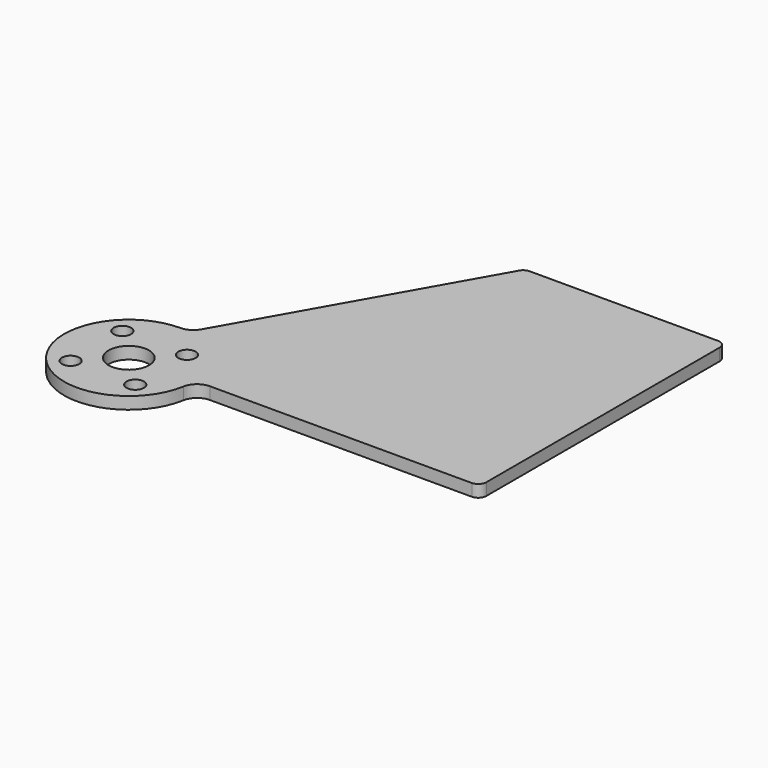
from build123d import *

# Parameters (mm, degrees)
SKETCH_R   = 2.15
SKETCH_R_2 = 5
PAD_DEPTH  = 3


with BuildPart() as part:
    # Sketch → Pad (new body)
    with BuildSketch(Plane.XY):
        with BuildLine():
            Line((36.7, 0.5), (84.5, 0.5))
            ThreePointArc((84.5, 0.5), (85.914214, 1.085786), (86.5, 2.5))
            Line((86.5, 2.5), (86.5, 74.7))
            ThreePointArc((86.5, 74.7), (85.914214, 76.114214), (84.5, 76.7))
            Line((84.5, 76.7), (37.865935, 76.7))
            ThreePointArc((37.865935, 76.7), (36.858665, 76.427833), (36.12554, 75.685406))
            Line((3.48079, 18.029189), (36.12554, 75.685406))
            ThreePointArc((0, 16), (2.014541, 16.544335), (3.48079, 18.029189))
            ThreePointArc((0, 16), (-12.263768, -10.276186), (15.753095, -2.8))
            ThreePointArc((19.691369, 0.5), (17.122322, -0.434058), (15.753095, -2.8))
            Line((36.7, 0.5), (19.691369, 0.5))
        make_face()
        with Locations((-8, 8)):
            Circle(SKETCH_R, mode=Mode.SUBTRACT)
        with Locations((8, 8)):
            Circle(SKETCH_R, mode=Mode.SUBTRACT)
        with Locations((-8, -8)):
            Circle(SKETCH_R, mode=Mode.SUBTRACT)
        with Locations((8, -8)):
            Circle(SKETCH_R, mode=Mode.SUBTRACT)
        Circle(SKETCH_R_2, mode=Mode.SUBTRACT)
    extrude(amount=PAD_DEPTH)


solid = part.part
